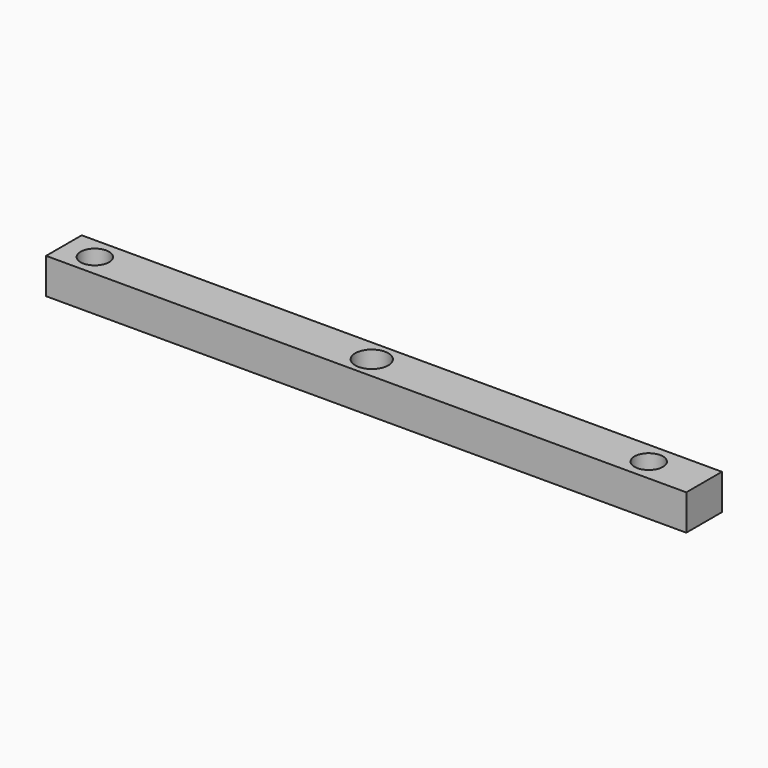
from build123d import *

# Parameters (mm, degrees)
F0_W     = 90
F0_H     = 6.258672
F0_R     = 2
F0_R_2   = 2.324227
F1_DEPTH = 5


with BuildPart() as f1:
    # F0 (on Top) → F1 (new body)
    with BuildSketch(Plane.XY):
        with Locations((1.716086, 0)):
            Rectangle(F0_W, F0_H)
        with Locations((-38.935287, 0)):
            Circle(F0_R, mode=Mode.SUBTRACT)
        Circle(F0_R_2, mode=Mode.SUBTRACT)
        with Locations((38.935287, 0)):
            Circle(F0_R, mode=Mode.SUBTRACT)
    extrude(amount=F1_DEPTH)


solid = f1.part
